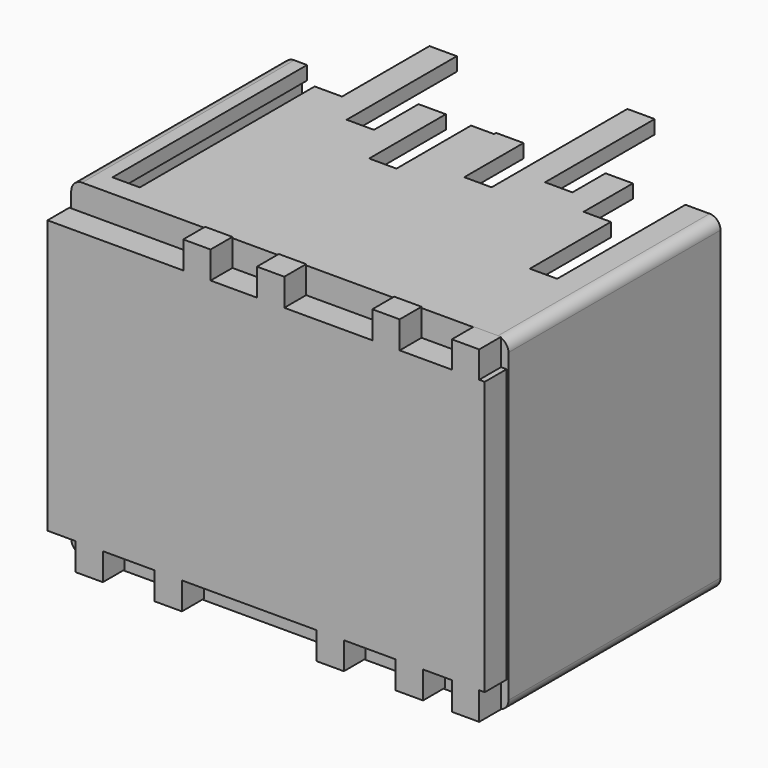
from build123d import *

# Parameters (mm, degrees)
F0_W      = 203.2
F0_H      = 152.4
F2_DEPTH  = 152.4
F3_W      = 88.9
F3_H      = 139.7
F4_DEPTH  = 12.7
F5_R      = 6.35
F6_DEPTH  = 127
F1_R      = 44.45
F8_DEPTH  = 101.6
F9_R      = 5.08
F10_W     = 127
F10_H     = 139.7
F11_DEPTH = 101.6
F12_W     = 193.04
F12_H     = 142.24
F12_W_2   = 88.9
F12_H_2   = 139.7
F12_R     = 44.45
F12_R_2   = 6.35
F14_W     = 88.9
F14_H     = 139.7
F14_W_2   = 312.5441968441
F14_H_2   = 209.9168300629
F15_DEPTH = 29.21
F13_W     = 76.2
F13_H     = 127
F16_DEPTH = 152.4
F17_W     = 88.9
F17_H     = 127
F18_DEPTH = 253.619
F19_W     = 12.7
F19_H     = 38.596359849
F19_H_2   = 95.0815806389
F19_H_3   = 79.8769908249
F19_H_4   = 69.7309503555
F19_H_5   = 88.4333456159
F20_DEPTH = 6.35
F21_W     = 76.2
F21_H     = 12.7
F22_DEPTH = 6.35
F23_W     = 12.7
F23_H     = 76.2
F23_H_2   = 86.7299305499
F23_H_3   = 88.9
F24_DEPTH = 6.35
F25_W     = 12.7
F25_H     = 12.7
F25_H_2   = 12.4177324921
F25_H_3   = 127
F25_W_2   = 2.5730909735
F25_H_4   = 12.9822675079
F26_DEPTH = 12.7


with BuildPart() as f2:
    # F0 (on Front) → F2 (new body)
    with BuildSketch(Plane.XZ):
        Rectangle(F0_W, F0_H)
    extrude(amount=F2_DEPTH)

    # F3 (on Front) → F4 (cut)
    with BuildSketch(Plane.XZ):
        with Locations((-50.6012091197, -0.215793407)):
            Rectangle(F3_W, F3_H)
    extrude(amount=F4_DEPTH, mode=Mode.SUBTRACT)

    # F5 (on face) → F6 (cut)
    with BuildSketch(Plane(origin=(0, -12.7, 0), x_dir=(-1, 0, 0), z_dir=(0, 1, 0))):
        with Locations((19.2305770945, 52.8817098261)):
            Circle(F5_R)
        with Locations((19.2305770945, 31.2917098261)):
            Circle(F5_R)
        with Locations((19.2305770945, 9.7017098261)):
            Circle(F5_R)
        with Locations((19.2305770945, -11.8882901739)):
            Circle(F5_R)
        with Locations((19.2305770945, -33.4782901739)):
            Circle(F5_R)
        with Locations((19.2305770945, -55.0682901739)):
            Circle(F5_R)
        with Locations((40.8205770945, 52.8817098261)):
            Circle(F5_R)
        with Locations((40.8205770945, 31.2917098261)):
            Circle(F5_R)
        with Locations((40.8205770945, 9.7017098261)):
            Circle(F5_R)
        with Locations((40.8205770945, -11.8882901739)):
            Circle(F5_R)
        with Locations((40.8205770945, -33.4782901739)):
            Circle(F5_R)
        with Locations((40.8205770945, -55.0682901739)):
            Circle(F5_R)
        with Locations((62.4105770945, 52.8817098261)):
            Circle(F5_R)
        with Locations((62.4105770945, 31.2917098261)):
            Circle(F5_R)
        with Locations((62.4105770945, 9.7017098261)):
            Circle(F5_R)
        with Locations((62.4105770945, -11.8882901739)):
            Circle(F5_R)
        with Locations((62.4105770945, -33.4782901739)):
            Circle(F5_R)
        with Locations((62.4105770945, -55.0682901739)):
            Circle(F5_R)
        with Locations((84.0005770945, 52.8817098261)):
            Circle(F5_R)
        with Locations((84.0005770945, 31.2917098261)):
            Circle(F5_R)
        with Locations((84.0005770945, 9.7017098261)):
            Circle(F5_R)
        with Locations((84.0005770945, -11.8882901739)):
            Circle(F5_R)
        with Locations((84.0005770945, -33.4782901739)):
            Circle(F5_R)
        with Locations((84.0005770945, -55.0682901739)):
            Circle(F5_R)
    extrude(amount=-F6_DEPTH, mode=Mode.SUBTRACT)

    # F1 (on face) → F8 (cut)
    with BuildSketch(Plane.XZ):
        with Locations((48.0613298714, 0)):
            Circle(F1_R)
    extrude(amount=F8_DEPTH, mode=Mode.SUBTRACT)

    # F9
    f9_edges = [f2.edges().sort_by_distance(p)[0] for p in [
        (0, 0, 76.2),
        (101.6, 0, 0),
        (0, 0, -76.2),
        (-101.6, 0, 0),
        (-101.6, -76.2, -76.2),
        (101.6, -76.2, -76.2),
        (101.6, -76.2, 76.2),
        (-101.6, -76.2, 76.2),
    ]]
    fillet(f9_edges, radius=F9_R)

    # F10 (on face) → F11 (cut)
    with BuildSketch(Plane(origin=(-101.6, 0, 0), x_dir=(0, -1, 0), z_dir=(-1, 0, 0))):
        with Locations((76.9326984882, 0)):
            Rectangle(F10_W, F10_H)
    extrude(amount=-F11_DEPTH, mode=Mode.SUBTRACT)

    # F12 (on face) + F14 (on face) → F15 (cut)
    with BuildSketch(Plane(origin=(0, 0, 0), x_dir=(-1, 0, 0), z_dir=(0, 1, 0))):
        Rectangle(F12_W, F12_H)
        with Locations((50.6012091197, -0.215793407)):
            Rectangle(F12_W_2, F12_H_2, mode=Mode.SUBTRACT)
        with Locations((-48.0613298714, 0)):
            Circle(F12_R, mode=Mode.SUBTRACT)
        with Locations((-87.3994901776, 62.0860531926)):
            Circle(F12_R_2, mode=Mode.SUBTRACT)
    with BuildSketch(Plane(origin=(0, 0, 0), x_dir=(-1, 0, 0), z_dir=(0, 1, 0))):
        with Locations((50.6012091197, -0.215793407)):
            Rectangle(F14_W, F14_H)
        Rectangle(F14_W_2, F14_H_2)
    extrude(amount=-F15_DEPTH, mode=Mode.SUBTRACT)

    # F13 (on face) → F16 (cut)
    with BuildSketch(Plane(origin=(0, 0, -76.2), x_dir=(1, 0, 0), z_dir=(0, 0, -1))):
        with Locations((-52.4439588189, 78.7642598152)):
            Rectangle(F13_W, F13_H)
    extrude(amount=-F16_DEPTH, mode=Mode.SUBTRACT)

    # F17 (on Top) → F18 (cut, symmetric)
    with BuildSketch(Plane.XY):
        with Locations((40.8431477845, -78.819476068)):
            Rectangle(F17_W, F17_H)
    extrude(amount=F18_DEPTH, both=True, mode=Mode.SUBTRACT)

    # F19 (on face) → F20 (join)
    with BuildSketch(Plane.XY.offset(76.2)):
        with Locations((78.9431477845, -123.0212961435)):
            Rectangle(F19_W, F19_H)
        Polygon((59.8931477845, -142.319476068), (59.8931477845, -56.6326193511), (59.8931477845, -28.019476068), (47.1931477845, -28.019476068), (47.1931477845, -47.2378954291), (47.1931477845, -142.319476068), align=None)
        Polygon((72.5931477845, -142.319476068), (72.5931477845, -103.723116219), (72.5931477845, -56.6326193511), (59.8931477845, -56.6326193511), (59.8931477845, -142.319476068), align=None)
        with Locations((40.8431477845, -94.7786857486)):
            Rectangle(F19_W, F19_H_2)
        Polygon((21.7931477845, -62.4424852431), (21.7931477845, -142.319476068), (34.4931477845, -142.319476068), (34.4931477845, -47.2378954291), (34.4931477845, 16.430523932), (21.7931477845, 16.430523932), align=None)
        with Locations((15.4431477845, -102.3809806556)):
            Rectangle(F19_W, F19_H_3)
        with Locations((-20.6939588189, -107.3987846375)):
            Rectangle(F19_W, F19_H_4)
        Polygon((-39.7439588189, -53.8309141994), (-39.7439588189, -142.2642598152), (-27.0439588189, -142.2642598152), (-27.0439588189, -72.5333094597), (-27.0439588189, -27.9642598152), (-39.7439588189, -27.9642598152), align=None)
        with Locations((-46.0939588189, -98.0475870073)):
            Rectangle(F19_W, F19_H_5)
        Polygon((-65.1439588189, -40.6642598152), (-65.1439588189, -142.2642598152), (-52.4439588189, -142.2642598152), (-52.4439588189, -53.8309141994), (-52.4439588189, 10.1357401848), (-65.1439588189, 10.1357401848), align=None)
        Polygon((-77.8439588189, -91.4642598152), (-77.8439588189, -142.2642598152), (-65.1439588189, -142.2642598152), (-65.1439588189, -40.6642598152), (-77.8439588189, -40.6642598152), align=None)
        Polygon((-3.6068522155, -28.019476068), (-3.6068522155, -29.21), (-3.6068522155, -142.319476068), (9.0931477845, -142.319476068), (9.0931477845, -62.4424852431), (9.0931477845, -28.019476068), align=None)
    extrude(amount=-F20_DEPTH)

    # F21 (on face) → F22 (join)
    with BuildSketch(Plane(origin=(-101.6, 0, 0), x_dir=(0, -1, 0), z_dir=(-1, 0, 0))):
        Polygon((13.4326984882, -57.15), (13.4326984882, -69.85), (140.4326984882, -69.85), (140.4326984882, -57.15), (64.2326984882, -57.15), align=None)
        with Locations((102.3326984882, -50.8)):
            Rectangle(F21_W, F21_H)
        Polygon((26.1326984882, -25.4), (26.1326984882, -38.1), (140.4326984882, -38.1), (140.4326984882, -25.4), (64.2326984882, -25.4), align=None)
        with Locations((102.3326984882, -19.05)):
            Rectangle(F21_W, F21_H)
        Polygon((64.2326984882, -12.7), (140.4326984882, -12.7), (140.4326984882, 0), (41.91, 0), (41.91, -12.7), align=None)
        Polygon((41.91, 0), (140.4326984882, 0), (140.4326984882, 12.7), (38.8326984882, 12.7), (38.8326984882, 0), align=None)
        Polygon((13.4326984882, 31.75), (13.4326984882, 19.05), (140.4326984882, 19.05), (140.4326984882, 31.75), (26.1326984882, 31.75), align=None)
        Polygon((26.1326984882, 31.75), (140.4326984882, 31.75), (140.4326984882, 44.45), (64.2326984882, 44.45), (26.1326984882, 44.45), align=None)
        with Locations((102.3326984882, 50.8)):
            Rectangle(F21_W, F21_H)
        Polygon((64.2326984882, 57.15), (140.4326984882, 57.15), (140.4326984882, 69.85), (26.1326984882, 69.85), (26.1326984882, 57.15), align=None)
    extrude(amount=-F22_DEPTH)

    # F23 (on face) → F24 (join)
    with BuildSketch(Plane(origin=(0, 0, -76.2), x_dir=(1, 0, 0), z_dir=(0, 0, -1))):
        with Locations((78.9431477845, 104.219476068)):
            Rectangle(F23_W, F23_H)
        with Locations((2.7431477845, 98.9545107931)):
            Rectangle(F23_W, F23_H_2)
        with Locations((-20.6939588189, 97.8142598152)):
            Rectangle(F23_W, F23_H_3)
        Polygon((72.5931477845, 28.019476068), (72.5931477845, 66.119476068), (72.5931477845, 142.319476068), (59.8931477845, 142.319476068), (59.8931477845, 28.019476068), align=None)
        Polygon((59.8931477845, 28.019476068), (59.8931477845, 142.319476068), (47.1931477845, 142.319476068), (47.1931477845, 53.419476068), (47.1931477845, 15.319476068), (59.8931477845, 15.319476068), align=None)
        with Locations((40.8431477845, 97.869476068)):
            Rectangle(F23_W, F23_H_3)
        Polygon((34.4931477845, 53.419476068), (34.4931477845, 142.319476068), (21.7931477845, 142.319476068), (21.7931477845, 40.719476068), (21.7931477845, 28.019476068), (34.4931477845, 28.019476068), align=None)
        Polygon((21.7931477845, 40.719476068), (21.7931477845, 142.319476068), (9.0931477845, 142.319476068), (9.0931477845, 55.5895455182), (9.0931477845, 40.719476068), align=None)
        Polygon((-27.0439588189, 142.2642598152), (-39.7439588189, 142.2642598152), (-39.7439588189, 34.2246964574), (-27.0439588189, 34.2246964574), (-27.0439588189, 53.3642598152), align=None)
        Polygon((-39.7439588189, 142.2642598152), (-52.4439588189, 142.2642598152), (-52.4439588189, 27.9642598152), (-39.7439588189, 27.9642598152), (-39.7439588189, 34.2246964574), align=None)
        Polygon((-52.4439588189, 142.2642598152), (-65.1439588189, 142.2642598152), (-65.1439588189, 66.0642598152), (-65.1439588189, 2.5642598152), (-52.4439588189, 2.5642598152), (-52.4439588189, 27.9642598152), align=None)
        with Locations((-71.4939588189, 104.1642598152)):
            Rectangle(F23_W, F23_H)
        Polygon((-90.5439588189, 142.2642598152), (-90.5439588189, 29.21), (-90.5439588189, 27.9642598152), (-77.8439588189, 27.9642598152), (-77.8439588189, 66.0642598152), (-77.8439588189, 142.2642598152), align=None)
    extrude(amount=-F24_DEPTH)

    # F25 (on face) → F26 (join)
    with BuildSketch(Plane.XZ.offset(152.4)):
        Polygon((85.4586139321, 64.0224360317), (61.2050529242, 64.0224360317), (48.5050529242, 64.0224360317), (7.57732118, 64.0224360317), (-5.12267882, 64.0224360317), (-26.6723212183, 64.0224360317), (-39.3723212183, 64.0224360317), (-102.4682950944, 64.0224360317), (-102.4682950944, 44.3732525826), (-89.7682950944, 44.3732525826), (-89.7682950944, 31.6732525826), (-102.4682950944, 31.6732525826), (-102.4682950944, -25.3421988666), (-89.7682950944, -25.3421988666), (-89.7682950944, -38.0421988666), (-102.4682950944, -38.0421988666), (-102.4682950944, -62.9775639683), (-89.4405841827, -62.9775639683), (-76.7405841827, -62.9775639683), (-52.6970252395, -62.9775639683), (-39.9970252395, -62.9775639683), (22.5620511919, -62.9775639683), (35.2620511919, -62.9775639683), (59.3553744256, -62.9775639683), (72.0553744256, -62.9775639683), (85.4586139321, -62.9775639683), align=None)
        with Locations((54.8550529242, 70.3724360317)):
            Rectangle(F25_W, F25_H)
        with Locations((91.8086139321, 70.2313022777)):
            Rectangle(F25_W, F25_H_2)
        with Locations((91.8086139321, 0.5224360317)):
            Rectangle(F25_W, F25_H_3)
        with Locations((1.22732118, 70.3724360317)):
            Rectangle(F25_W, F25_H)
        with Locations((99.4451594189, 0.5224360317)):
            Rectangle(F25_W_2, F25_H_3)
        with Locations((91.8086139321, -69.4686977223)):
            Rectangle(F25_W, F25_H_4)
        with Locations((65.7053744256, -69.3275639683)):
            Rectangle(F25_W, F25_H)
        with Locations((-33.0223212183, 70.3724360317)):
            Rectangle(F25_W, F25_H)
        with Locations((28.9120511919, -69.3275639683)):
            Rectangle(F25_W, F25_H)
        with Locations((-96.1182950944, 38.0232525826)):
            Rectangle(F25_W, F25_H)
        with Locations((-46.3470252395, -69.3275639683)):
            Rectangle(F25_W, F25_H)
        with Locations((-96.1182950944, -31.6921988666)):
            Rectangle(F25_W, F25_H)
        with Locations((-83.0905841827, -69.3275639683)):
            Rectangle(F25_W, F25_H)
    extrude(amount=F26_DEPTH)


solid = f2.part
